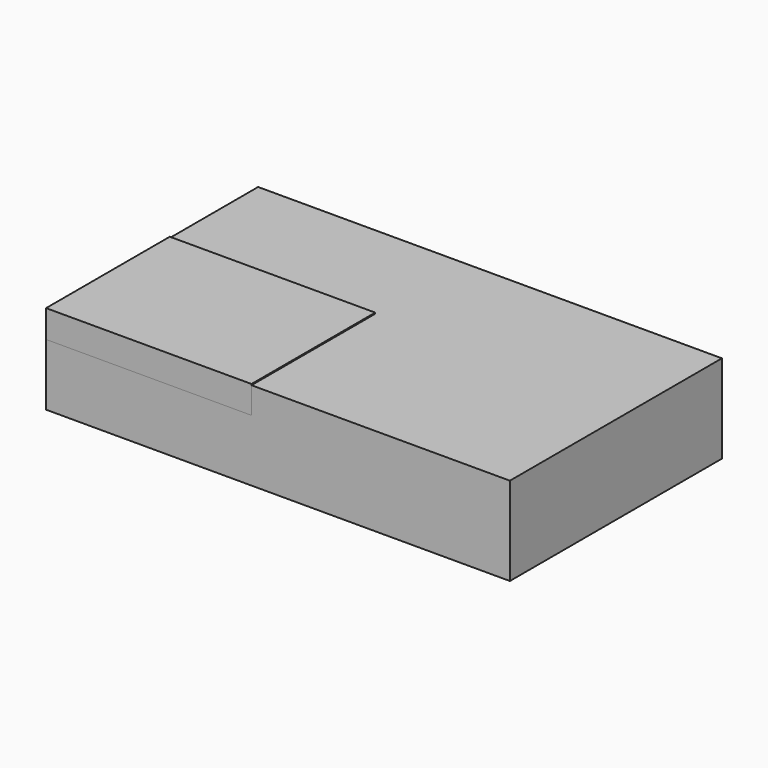
from build123d import *

# Parameters (mm, degrees)
BOX_W        = 210
BOX_H        = 120
BOX_DEPTH    = 40
BOX001_W     = 93
BOX001_H     = 70
BOX001_DEPTH = 12.5


with BuildPart() as box:
    # Box → Box (new body)
    with BuildSketch(Plane.XY):
        with Locations((105, 60)):
            Rectangle(BOX_W, BOX_H)
    extrude(amount=BOX_DEPTH)


with BuildPart() as box001:
    # Box001 → Box001 (new body)
    with BuildSketch(Plane.XY.offset(28)):
        with Locations((46.5, 35)):
            Rectangle(BOX001_W, BOX001_H)
    extrude(amount=BOX001_DEPTH)


solid = Compound([box.part, box001.part])
